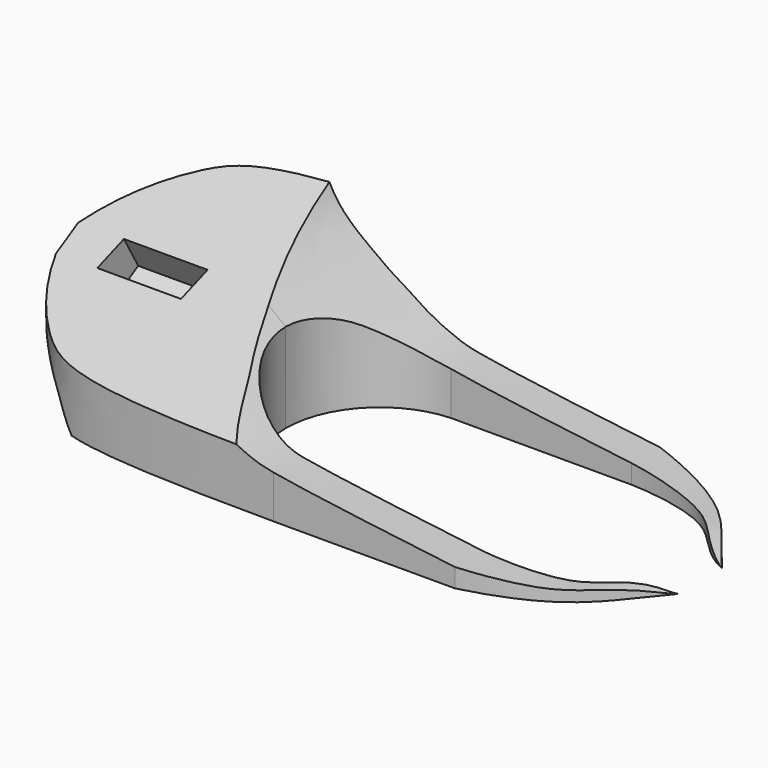
from build123d import *

# Parameters (mm, degrees)
PAD014_DEPTH    = 30
PAD015_DEPTH    = 30
POCKET025_DEPTH = 20
POCKET026_DEPTH = 21.5
SKETCH042_W     = 12
SKETCH042_H     = 5
POCKET027_DEPTH = 12
POCKET028_DEPTH = 56


with BuildPart() as part:
    # Sketch039 → Pad014 (new body)
    with BuildSketch(Plane.XY):
        with BuildLine():
            Line((-9.589778, 13.5), (16.304401, 13.5))
            add(Edge.make_bspline(
                [(16.304401, 13.5), (18.304401, 13.501121), (30.261282, 12.300449), (32.780455, 5.78943), (36.883, 3.99632)],
                knots=[0, 0, 0, 0, 0.5, 1, 1, 1, 1], degree=3))
            add(Edge.make_bspline(
                [(16.418763, 18.5), (30.0728, 14.9629), (31.610432, 10.059164), (36.883, 3.99632)],
                knots=[0, 0, 0, 0, 1, 1, 1, 1], degree=3))
            Line((16.418763, 18.5), (-9.475416, 18.5))
            add(Edge.make_bspline(
                [(-9.475416, 18.5), (-37.3482, 18.4799), (-45.9357, 14.9697), (-52.392, 5.81805), (-53.9591, 0)],
                knots=[0, 0, 0, 0, 0.5, 1, 1, 1, 1], degree=3))
            Line((-53.9591, 0), (-22.519652, 0))
            ThreePointArc((-22.519652, 0), (-18.765757, 9.346551), (-9.589778, 13.5))
        make_face()
    extrude(amount=PAD014_DEPTH)

    # MirroredSketch003 → Pad015 (join)
    with BuildSketch(Plane.XY):
        with BuildLine():
            ThreePointArc((-22.509759, 0), (-18.649206, -9.4526), (-9.275089, -13.5))
            Line((-9.275089, -13.5), (16.779349, -13.5))
            add(Edge.make_bspline(
                [(16.779349, -13.5), (18.779349, -13.501566), (30.261282, -12.300449), (32.780455, -5.78943), (36.883, -3.99632)],
                knots=[0, 0, 0, 0, 0.5, 1, 1, 1, 1], degree=3))
            add(Edge.make_bspline(
                [(16.579022, -18.5), (30.0728, -14.9629), (31.610432, -10.059164), (36.883, -3.99632)],
                knots=[0, 0, 0, 0, 1, 1, 1, 1], degree=3))
            Line((16.579022, -18.5), (-9.475416, -18.5))
            add(Edge.make_bspline(
                [(-9.475416, -18.5), (-37.3482, -18.4799), (-45.9357, -14.9697), (-52.392, -5.81805), (-53.9591, 0)],
                knots=[0, 0, 0, 0, 0.5, 1, 1, 1, 1], degree=3))
            Line((-53.9591, 0), (-22.509759, 0))
        make_face()
    extrude(amount=PAD015_DEPTH)

    # Sketch040 → Pocket025 (cut, symmetric)
    with BuildSketch(Plane.XZ):
        with BuildLine():
            add(Edge.make_bspline(
                [(-24.537006, -5.962733), (-33.96579, -2.450956), (-37.868225, -2.280037), (-40.937222, 0.666897), (-42.772399, 4.28026), (-44.64164, 5.891069), (-46.771927, 7.751321), (-48.272129, 8.831467), (-49.712326, 9.851604), (-51.122517, 10.871743), (-51.959799, 11.78326), (-52.801899, 13.00826), (-53.108199, 14.38636), (-54.026699, 16.472837)],
                knots=[0, 0, 0, 0, 0.090909, 0.181818, 0.272727, 0.363636, 0.454545, 0.545455, 0.636364, 0.727273, 0.818182, 0.909091, 1, 1, 1, 1], degree=3))
            Line((-54.026699, 16.472837), (-67.115806, 16.580737))
            Line((-67.115806, 16.580737), (-67.115806, -12.040442))
            Line((-67.115806, -12.040442), (-30.519064, -12.040442))
            Line((-30.519064, -12.040442), (-24.537006, -5.962733))
        make_face()
    extrude(amount=POCKET025_DEPTH, both=True, mode=Mode.SUBTRACT)

    # Sketch041 → Pocket026 (cut, symmetric)
    with BuildSketch(Plane.XZ):
        with BuildLine():
            add(Edge.make_bspline(
                [(37.444431, 0), (36.529029, -0.034935), (34.789729, 0.788918), (31.677429, 1.567008), (28.075538, 1.449184), (22.701629, 2.017733), (12.650452, 3.118566), (-9.404895, 5.984315), (-12.561653, 6.893496), (-16.923237, 8.943251), (-19.787928, 11.091768), (-22.070726, 12.43459), (-23.861156, 13.822172), (-29.26718, 18.092406), (-30.571993, 21.281189)],
                knots=[0, 0, 0, 0, 0.083333, 0.166667, 0.25, 0.333333, 0.416667, 0.5, 0.583333, 0.666667, 0.75, 0.833333, 0.916667, 1, 1, 1, 1], degree=3))
            Line((-30.571993, 21.281189), (-30.571993, 45.329951))
            Line((-30.571993, 45.329951), (49.525864, 45.329951))
            Line((49.525864, 45.329951), (49.525864, 21.336774))
            Line((49.525864, 21.336774), (49.525864, 7.285458))
            Line((49.525864, 7.285458), (37.444431, 0))
        make_face()
    extrude(amount=POCKET026_DEPTH, both=True, mode=Mode.SUBTRACT)

    # Sketch042 → Pocket027 (cut)
    with BuildSketch(Plane(origin=(-41, -4, 20), x_dir=(1, 0, 0), z_dir=(0, -0.5, 0.866025))):
        Rectangle(SKETCH042_W, SKETCH042_H)
    extrude(amount=-POCKET027_DEPTH, mode=Mode.SUBTRACT)

    # Sketch043 → Pocket028 (cut)
    with BuildSketch(Plane(origin=(-55, 0, -14), x_dir=(0, -1, 0), z_dir=(-1, 0, 0))):
        Polygon((20.393735, 21.28546), (-19.911666, 35.955426), (-19.911666, 49.434164), (20.393735, 49.434164), align=None)
    extrude(amount=-POCKET028_DEPTH, mode=Mode.SUBTRACT)


with BuildPart() as part_1:
    # Body012 placement: moved
    add(part.part.moved(Location((0, 0, 3))))


solid = part_1.part
